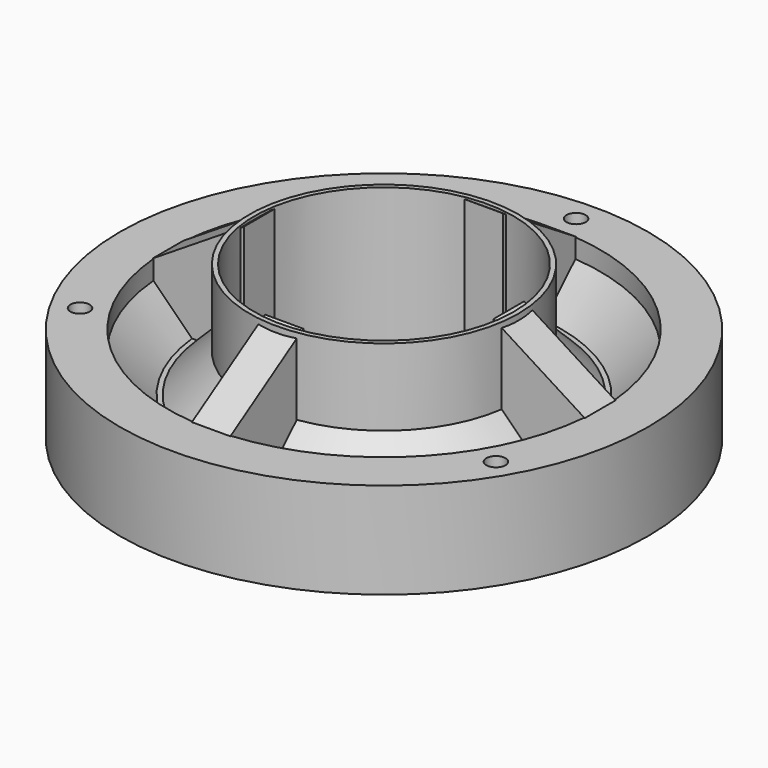
from build123d import *

# Parameters (mm, degrees)
SKETCH_R        = 27.5
SKETCH_R_2      = 22.5
SKETCH_R_3      = 1
PAD_DEPTH       = 10
SKETCH001_R     = 22.5
SKETCH001_R_2   = 14
PAD001_DEPTH    = 4
CHAMFER_SIZE    = 4
PAD002_DEPTH    = 2
PAD003_DEPTH    = 2
SKETCH004_R     = 14
SKETCH004_R_2   = 13.5
PAD004_DEPTH    = 16
CHAMFER001_SIZE = 4


with BuildPart() as part:
    # Sketch → Pad (new body)
    with BuildSketch(Plane.XY):
        Circle(SKETCH_R)
        Circle(SKETCH_R_2, mode=Mode.SUBTRACT)
        with Locations((0, 25)):
            Circle(SKETCH_R_3, mode=Mode.SUBTRACT)
        with Locations((-21.650635, -12.5)):
            Circle(SKETCH_R_3, mode=Mode.SUBTRACT)
        with Locations((21.650635, -12.5)):
            Circle(SKETCH_R_3, mode=Mode.SUBTRACT)
    extrude(amount=PAD_DEPTH)

    # Sketch001 → Pad001 (join)
    with BuildSketch(Plane.XY):
        Circle(SKETCH001_R)
        Circle(SKETCH001_R_2, mode=Mode.SUBTRACT)
    extrude(amount=PAD001_DEPTH)

    # Chamfer
    chamfer_edges = [part.edges().sort_by_distance(p)[0] for p in [
        (-22.5, 0, 4),
    ]]
    chamfer(chamfer_edges, length=CHAMFER_SIZE)

    # Sketch002 → Pad002 (join, symmetric)
    with BuildSketch(Plane.XZ):
        Polygon((22.5, 10), (22.5, 4), (13, 4), (13, 16), align=None)
        Polygon((-22.5, 10), (-22.5, 4), (-13, 4), (-13, 16), align=None)
    extrude(amount=PAD002_DEPTH, both=True)

    # Sketch003 → Pad003 (join, symmetric)
    with BuildSketch(Plane.YZ):
        Polygon((13, 4), (22.5, 4), (22.5, 10), (13, 16), align=None)
        Polygon((-13, 4), (-22.5, 4), (-22.5, 10), (-13, 16), align=None)
    extrude(amount=PAD003_DEPTH, both=True)

    # Sketch004 → Pad004 (join)
    with BuildSketch(Plane.XY):
        Circle(SKETCH004_R)
        Circle(SKETCH004_R_2, mode=Mode.SUBTRACT)
    extrude(amount=PAD004_DEPTH)

    # Chamfer001
    chamfer001_edges = [part.edges().sort_by_distance(p)[0] for p in [
        (9.899495, 9.899495, 4),
        (9.899495, -9.899495, 4),
        (-9.899495, -9.899495, 4),
        (-9.899495, 9.899495, 4),
    ]]
    chamfer(chamfer001_edges, length=CHAMFER001_SIZE)


solid = part.part
